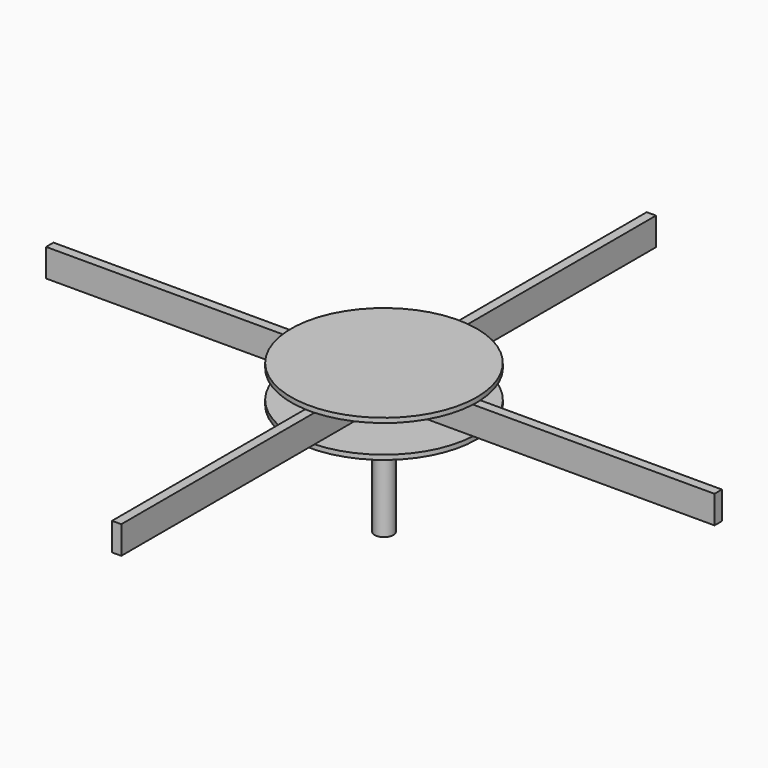
from build123d import *

# Parameters (mm, degrees)
F0_R     = 6.35
F1_DEPTH = 38.1
F2_R     = 63.5
F3_DEPTH = 3.175
F4_W     = 6.35
F4_H     = 203.2
F4_W_2   = 203.2
F4_H_2   = 6.35
F5_DEPTH = 19.05
F6_R     = 63.5
F7_DEPTH = 3.175


with BuildPart() as f1:
    # F0 (on Top) → F1 (new body, symmetric)
    with BuildSketch(Plane.XY):
        Circle(F0_R)
    extrude(amount=F1_DEPTH, both=True)



with BuildPart() as f3:
    # F2 (on face) → F3 (new body)
    with BuildSketch(Plane.XY.offset(60.325)):
        Circle(F2_R)
    extrude(amount=F3_DEPTH)

    # F4 (on face) → F5 (join)
    with BuildSketch(Plane.XY.offset(41.275)):
        with Locations((0, 127)):
            Rectangle(F4_W, F4_H)
        with Locations((-127, 0)):
            Rectangle(F4_W_2, F4_H_2)
        with Locations((127, 0)):
            Rectangle(F4_W_2, F4_H_2)
        with Locations((0, -127)):
            Rectangle(F4_W, F4_H)
    extrude(amount=F5_DEPTH)


with BuildPart() as f1_1:
    add(f1.part)

    add(f3.part)  # F7 merges F3
    # F6 (on face) → F7 (join)
    with BuildSketch(Plane.XY.offset(38.1)):
        Circle(F6_R)
    extrude(amount=F7_DEPTH)


solid = f1_1.part
